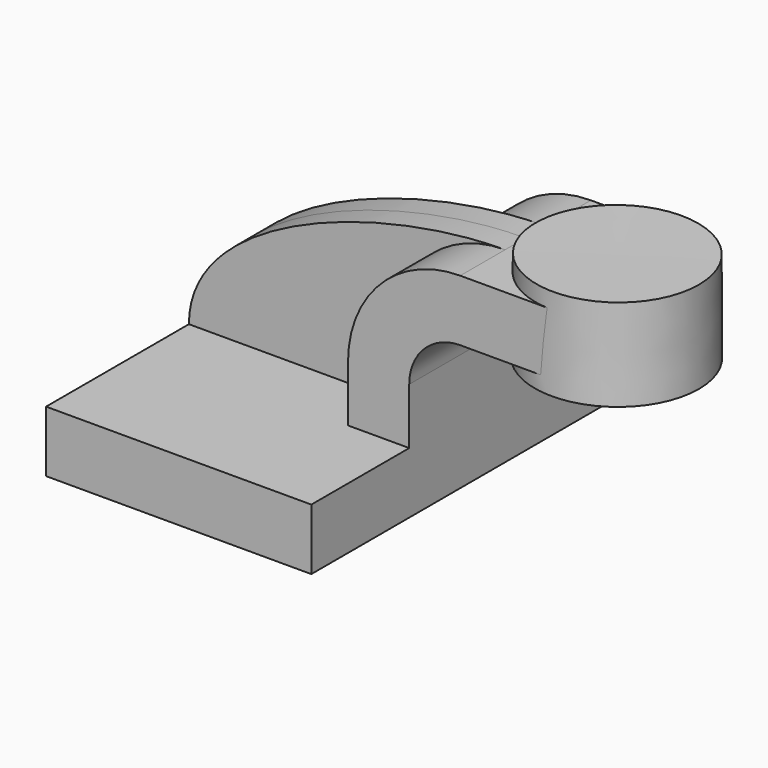
from build123d import *

# Parameters (mm, degrees)
F1_DEPTH = 63.5
F0_W     = 25.1397234082
F0_H     = 19.05
F2_DEPTH = 25.4
F3_DEPTH = 7.9375


with BuildPart() as f1:
    # F0 (on Front) → F1 (new body, symmetric)
    with BuildSketch(Plane.XZ):
        Polygon((-41.275, 9.525), (-41.275, -9.525), (41.275, -9.525), (41.275, 9.525), (22.225, 9.525), align=None)
    extrude(amount=F1_DEPTH, both=True)

    # F0 (on Front) → F2 (join, symmetric)
    with BuildSketch(Plane.XZ):
        with BuildLine():
            Line((22.225, 9.525), (41.275, 9.525))
            Line((41.275, 9.525), (41.275, 27.0002))
            ThreePointArc((41.275, 27.0002), (45.9246798487, 38.2255201513), (57.15, 42.8752))
            Line((57.15, 42.8752), (60.325, 42.8752))
            Line((60.325, 42.8752), (60.325, 61.9252))
            Line((60.325, 61.9252), (57.15, 61.9252))
            ThreePointArc((57.15, 61.9252), (32.4542956671, 51.6959043329), (22.225, 27.0002))
            Line((22.225, 27.0002), (22.225, 9.525))
        make_face()
        with Locations((72.8948617041, 52.4002)):
            Rectangle(F0_W, F0_H)
    extrude(amount=F2_DEPTH, both=True)

    # F0 (on Front) → F3 (join, symmetric)
    with BuildSketch(Plane.XZ):
        with BuildLine():
            add(Edge.make_bspline(
                [(-41.275, 9.525), (-41.275, 42.1362832522), (18.6590275409, 61.9252), (57.15, 61.9252)],
                knots=[0, 0, 0, 0, 111.5045361635, 111.5045361635, 111.5045361635, 111.5045361635], degree=3))
            Line((-41.275, 9.525), (22.225, 9.525))
            Line((22.225, 9.525), (22.225, 27.0002))
            ThreePointArc((22.225, 27.0002), (32.4542956671, 51.6959043329), (57.15, 61.9252))
        make_face()
    extrude(amount=F3_DEPTH, both=True)

    # F0 (on Front) → F4 (revolve)
    with BuildSketch(Plane.XZ):
        Polygon((111.125, 66.675), (85.725, 66.675), (85.4647234082, 38.1), (111.125, 38.1), align=None)
    revolve(axis=Axis((85.5948617041, 0, 52.3875), (-0.0091081643, 0, -0.9999585198)))


solid = f1.part
